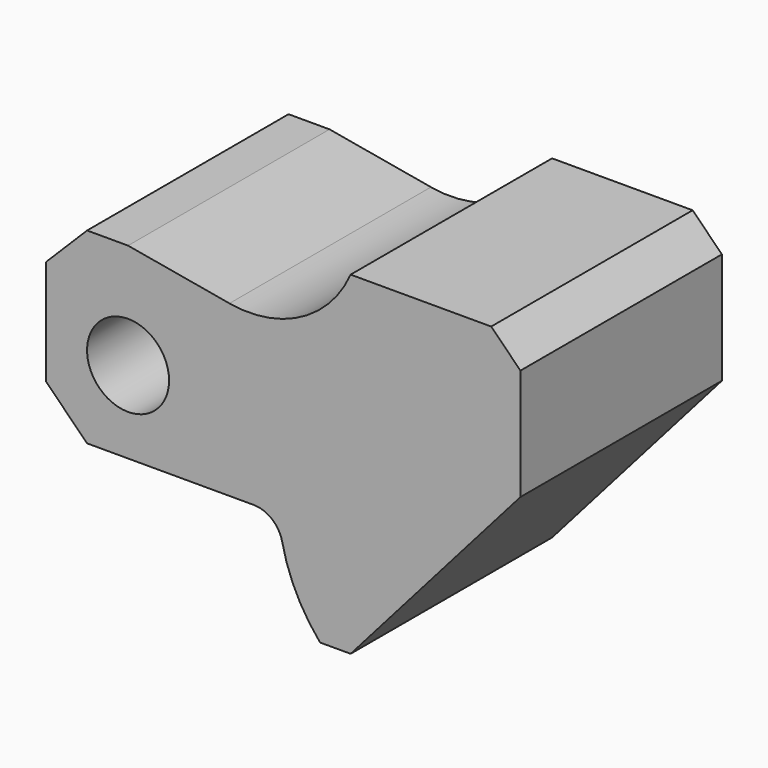
from build123d import *

# Parameters (mm, degrees)
F0_R     = 7
F1_DEPTH = 21.5
F2_R     = 5


with BuildPart() as f1:
    # F0 (on Front) → F1 (new body, symmetric)
    with BuildSketch(Plane.XZ):
        with BuildLine():
            Line((-9.187381455, 19.4473182438), (-26.5, 22.5))
            Line((-26.5, 22.5), (-33.5, 22.5))
            Line((-33.5, 22.5), (-40.5, 15.5))
            Line((-40.5, 15.5), (-40.5, -2.5))
            Line((-40.5, -2.5), (-33.5, -9.5))
            Line((-33.5, -9.5), (-0.733982586, -9.5))
            ThreePointArc((-0.733982586, -9.5), (1.3935612661, -18.5714631594), (6.2880673968, -26.5))
            Line((6.2880673968, -26.5), (11.5, -26.5))
            Line((11.5, -26.5), (40.5, 6.5))
            Line((40.5, 6.5), (40.5, 25.5))
            Line((40.5, 25.5), (35.5, 30.5))
            Line((35.5, 30.5), (11.5, 30.5))
            ThreePointArc((11.5, 30.5), (3.0653504529, 21.400493443), (-9.187381455, 19.4473182438))
        make_face()
        with Locations((-26.5, 4.5)):
            Circle(F0_R, mode=Mode.SUBTRACT)
    extrude(amount=F1_DEPTH, both=True)

    # F2
    f2_edges = [f1.edges().sort_by_distance(p)[0] for p in [
        (-0.733983, 0, -9.5),
    ]]
    fillet(f2_edges, radius=F2_R)


solid = f1.part
